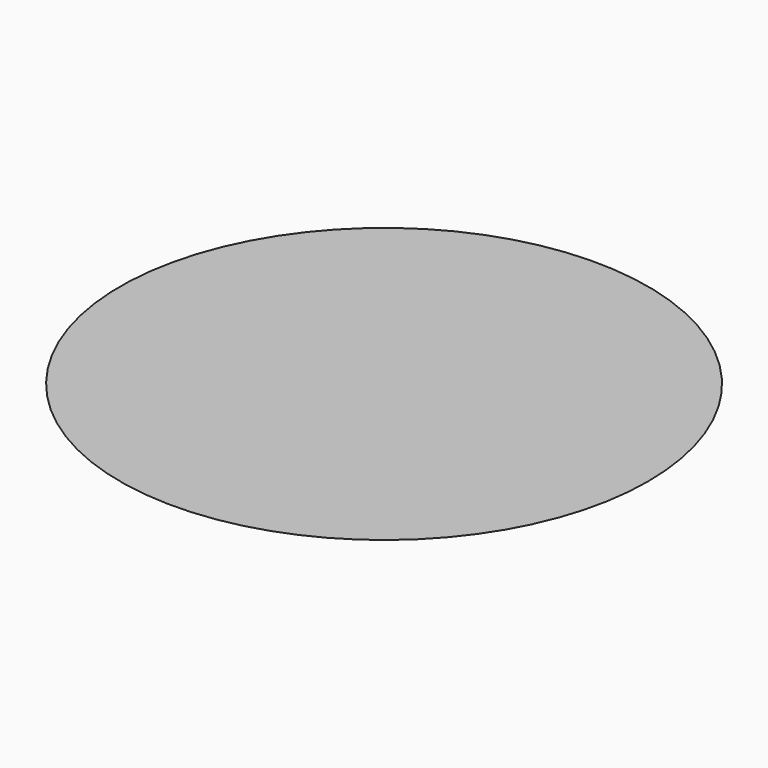
from build123d import *

# Parameters (mm, degrees)
F0_W = 101.6
F0_H = 101.6


with BuildPart() as f1:
    # F0 (on Front) → F1 (revolve)
    with BuildSketch(Plane.XZ):
        Polygon((2133.6, 1270.1016), (0, 1270.1016), (0, 1117.6), (101.6, 1117.6), align=None)
        with Locations((50.8, 1066.8)):
            Rectangle(F0_W, F0_H)
        with Locations((50.8, 965.2)):
            Rectangle(F0_W, F0_H)
    revolve(axis=Axis((0, 0, 635.0508), (0, 0, 1)))


solid = f1.part
